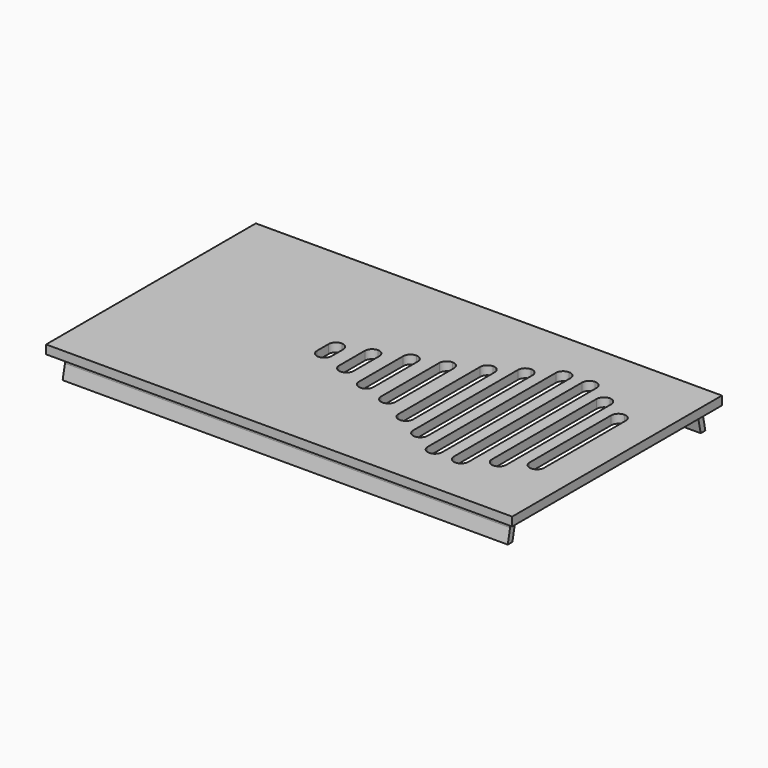
from build123d import *

# Parameters (mm, degrees)
F0_W     = 80
F0_H     = 45
F1_DEPTH = 1.5
F2_W     = 76.4
F2_H     = 41.4
F2_W_2   = 73.4
F2_H_2   = 38.4
F3_DEPTH = 1.5
F5_DEPTH = 76.4
F6_DEPTH = 76.4


with BuildPart() as f1:
    # F0 (on Top) → F1 (new body)
    with BuildSketch(Plane.XY):
        with Locations((0.812615, 2.5)):
            Rectangle(F0_W, F0_H)
        with BuildLine():
            ThreePointArc((-8.437385, 0), (-9.321268, 0.366117), (-9.687385, 1.25))
            Line((-9.687385, 1.25), (-9.687385, 3.75))
            ThreePointArc((-9.687385, 3.75), (-9.321268, 4.633883), (-8.437385, 5))
            ThreePointArc((-8.437385, 5), (-7.553501, 4.633883), (-7.187385, 3.75))
            Line((-7.187385, 3.75), (-7.187385, 1.25))
            ThreePointArc((-7.187385, 1.25), (-7.553501, 0.366117), (-8.437385, 0))
        make_face(mode=Mode.SUBTRACT)
        with BuildLine():
            ThreePointArc((-3.437385, -1.5), (-4.321268, -1.133883), (-4.687385, -0.25))
            Line((-4.687385, -0.25), (-4.687385, 5.25))
            ThreePointArc((-4.687385, 5.25), (-4.321268, 6.133883), (-3.437385, 6.5))
            ThreePointArc((-3.437385, 6.5), (-2.553501, 6.133883), (-2.187385, 5.25))
            Line((-2.187385, 5.25), (-2.187385, -0.25))
            ThreePointArc((-2.187385, -0.25), (-2.553501, -1.133883), (-3.437385, -1.5))
        make_face(mode=Mode.SUBTRACT)
        with BuildLine():
            ThreePointArc((1.562615, -3.5), (0.678732, -3.133883), (0.312615, -2.25))
            Line((0.312615, -2.25), (0.312615, 7.25))
            ThreePointArc((0.312615, 7.25), (0.678732, 8.133883), (1.562615, 8.5))
            ThreePointArc((1.562615, 8.5), (2.446499, 8.133883), (2.812615, 7.25))
            Line((2.812615, 7.25), (2.812615, -2.25))
            ThreePointArc((2.812615, -2.25), (2.446499, -3.133883), (1.562615, -3.5))
        make_face(mode=Mode.SUBTRACT)
        with BuildLine():
            ThreePointArc((6.562615, -5), (5.678732, -4.633883), (5.312615, -3.75))
            Line((5.312615, -3.75), (5.312615, 8.75))
            ThreePointArc((5.312615, 8.75), (5.678732, 9.633883), (6.562615, 10))
            ThreePointArc((6.562615, 10), (7.446499, 9.633883), (7.812615, 8.75))
            Line((7.812615, 8.75), (7.812615, -3.75))
            ThreePointArc((7.812615, -3.75), (7.446499, -4.633883), (6.562615, -5))
        make_face(mode=Mode.SUBTRACT)
        with BuildLine():
            Line((10.312615, -6.25), (10.312615, 11.25))
            ThreePointArc((10.312615, 11.25), (10.678732, 12.133883), (11.562615, 12.5))
            ThreePointArc((11.562615, 12.5), (12.446499, 12.133883), (12.812615, 11.25))
            Line((12.812615, 11.25), (12.812615, -6.25))
            ThreePointArc((12.812615, -6.25), (12.446499, -7.133883), (11.562615, -7.5))
            ThreePointArc((11.562615, -7.5), (10.678732, -7.133883), (10.312615, -6.25))
        make_face(mode=Mode.SUBTRACT)
        with BuildLine():
            Line((14.812615, -8.75), (14.812615, 13.75))
            ThreePointArc((14.812615, 13.75), (15.178732, 14.633883), (16.062615, 15))
            ThreePointArc((16.062615, 15), (16.946499, 14.633883), (17.312615, 13.75))
            Line((17.312615, 13.75), (17.312615, -8.75))
            ThreePointArc((17.312615, -8.75), (16.946499, -9.633883), (16.062615, -10))
            ThreePointArc((16.062615, -10), (15.178732, -9.633883), (14.812615, -8.75))
        make_face(mode=Mode.SUBTRACT)
        with BuildLine():
            Line((19.312615, -11.25), (19.312615, 16.25))
            ThreePointArc((19.312615, 16.25), (19.678732, 17.133883), (20.562615, 17.5))
            ThreePointArc((20.562615, 17.5), (21.446499, 17.133883), (21.812615, 16.25))
            Line((21.812615, 16.25), (21.812615, -11.25))
            ThreePointArc((21.812615, -11.25), (21.446499, -12.133883), (20.562615, -12.5))
            ThreePointArc((20.562615, -12.5), (19.678732, -12.133883), (19.312615, -11.25))
        make_face(mode=Mode.SUBTRACT)
        with BuildLine():
            Line((23.812615, -11.25), (23.812615, 16.25))
            ThreePointArc((23.812615, 16.25), (24.178732, 17.133883), (25.062615, 17.5))
            ThreePointArc((25.062615, 17.5), (25.946499, 17.133883), (26.312615, 16.25))
            Line((26.312615, 16.25), (26.312615, -11.25))
            ThreePointArc((26.312615, -11.25), (25.946499, -12.133883), (25.062615, -12.5))
            ThreePointArc((25.062615, -12.5), (24.178732, -12.133883), (23.812615, -11.25))
        make_face(mode=Mode.SUBTRACT)
        with BuildLine():
            Line((28.312615, -8.75), (28.312615, 13.75))
            ThreePointArc((28.312615, 13.75), (28.678732, 14.633883), (29.562615, 15))
            ThreePointArc((29.562615, 15), (30.446499, 14.633883), (30.812615, 13.75))
            Line((30.812615, 13.75), (30.812615, -8.75))
            ThreePointArc((30.812615, -8.75), (30.446499, -9.633883), (29.562615, -10))
            ThreePointArc((29.562615, -10), (28.678732, -9.633883), (28.312615, -8.75))
        make_face(mode=Mode.SUBTRACT)
        with BuildLine():
            Line((32.812615, -6.25), (32.812615, 11.25))
            ThreePointArc((32.812615, 11.25), (33.178732, 12.133883), (34.062615, 12.5))
            ThreePointArc((34.062615, 12.5), (34.946499, 12.133883), (35.312615, 11.25))
            Line((35.312615, 11.25), (35.312615, -6.25))
            ThreePointArc((35.312615, -6.25), (34.946499, -7.133883), (34.062615, -7.5))
            ThreePointArc((34.062615, -7.5), (33.178732, -7.133883), (32.812615, -6.25))
        make_face(mode=Mode.SUBTRACT)
    extrude(amount=F1_DEPTH)

    # F2 (on face) → F3 (join)
    with BuildSketch(Plane(origin=(0, 0, 0), x_dir=(1, 0, 0), z_dir=(0, 0, -1))):
        with Locations((0.812615, -2.5)):
            Rectangle(F2_W, F2_H)
        with Locations((0.812615, -2.5)):
            Rectangle(F2_W_2, F2_H_2, mode=Mode.SUBTRACT)
    extrude(amount=F3_DEPTH)

    # F4 (on face) → F5 (join)
    with BuildSketch(Plane.YZ.offset(39.012615)):
        Polygon((23.7, -3.847339), (23.2, -1.5), (22.2, -1.5), (22.7, -3.847339), align=None)
    extrude(amount=-F5_DEPTH)

    # F4 (on face) → F6 (join)
    with BuildSketch(Plane.YZ.offset(39.012615)):
        Polygon((23.7, -3.847339), (23.2, -1.5), (22.2, -1.5), (22.7, -3.847339), align=None)
        Polygon((-18.7, -3.847339), (-17.7, -3.847339), (-17.2, -1.5), (-18.2, -1.5), align=None)
    extrude(amount=-F6_DEPTH)


solid = f1.part
